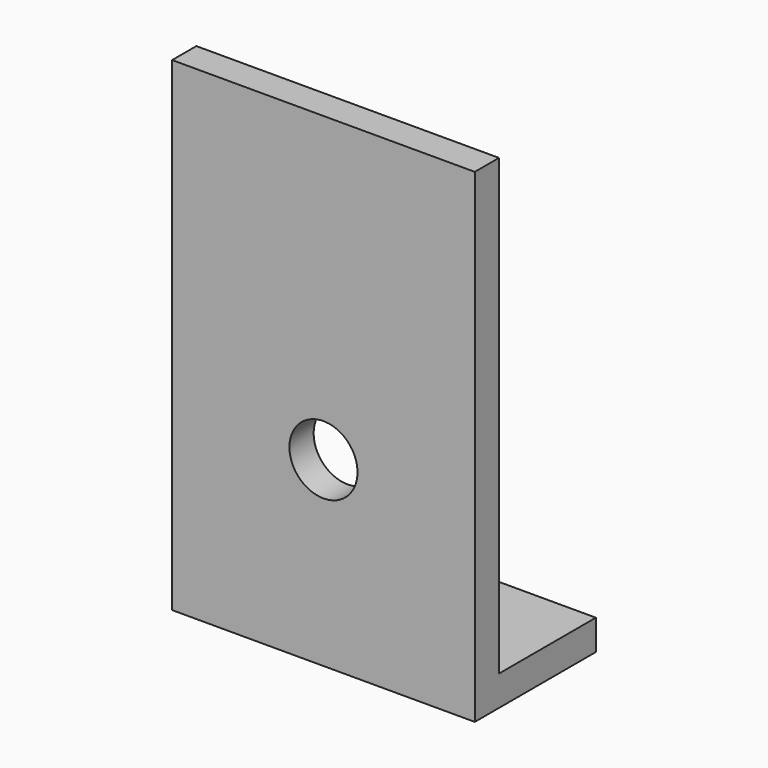
from build123d import *

# Parameters (mm, degrees)
F1_DEPTH = 63.5
F3_D     = 14.2875


with BuildPart() as f1:
    # F0 (on Right) → F1 (new body)
    with BuildSketch(Plane.YZ):
        Polygon((0, 101.6), (0, 0), (31.75, 0), (31.75, 6.35), (6.35, 6.35), (6.35, 101.6), align=None)
    extrude(amount=F1_DEPTH)

    # F3 (through all)
    with Locations(Plane.XZ):
        with Locations((31.75, 38.1)):
            Hole(F3_D / 2)


solid = f1.part
